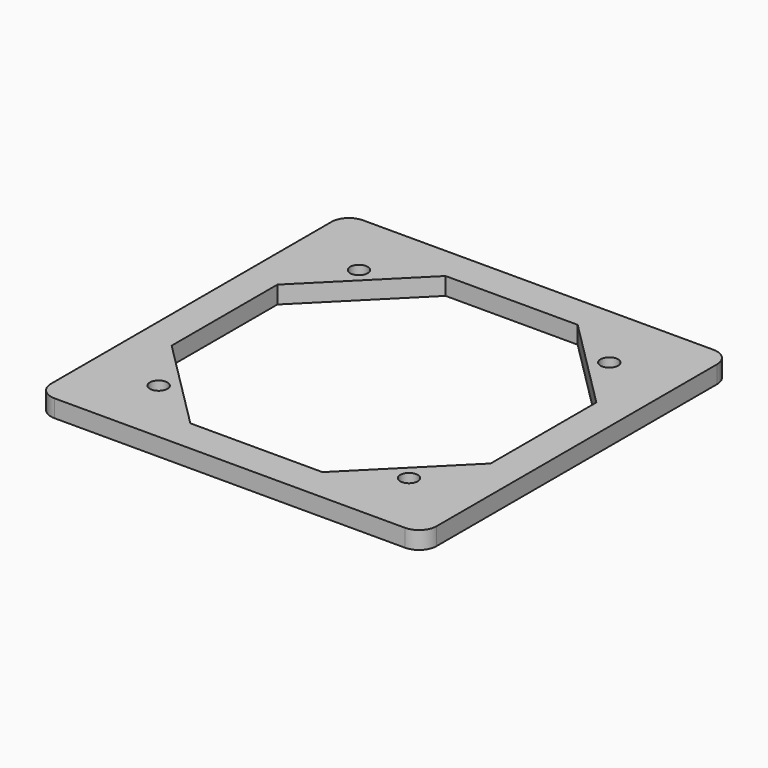
from build123d import *

# Parameters (mm, degrees)
F0_R     = 2.5
F1_DEPTH = 5


with BuildPart() as f1:
    # F0 (on Top) → F1 (new body)
    with BuildSketch(Plane.XY):
        with BuildLine():
            Line((-50, -55), (50, -55))
            ThreePointArc((50, -55), (53.535534, -53.535534), (55, -50))
            Line((55, -50), (55, 50))
            ThreePointArc((55, 50), (53.535534, 53.535534), (50, 55))
            Line((50, 55), (-50, 55))
            ThreePointArc((-50, 55), (-53.535534, 53.535534), (-55, 50))
            Line((-55, 50), (-55, -50))
            ThreePointArc((-55, -50), (-53.535534, -53.535534), (-50, -55))
        make_face()
        with Locations((-35.708892, -35.708892)):
            Circle(F0_R, mode=Mode.SUBTRACT)
        with Locations((35.708892, -35.708892)):
            Circle(F0_R, mode=Mode.SUBTRACT)
        with Locations((-35.708892, 35.708892)):
            Circle(F0_R, mode=Mode.SUBTRACT)
        Polygon((18.846717, 45.5), (45.5, 18.846717), (45.5, -18.846717), (18.846717, -45.5), (-18.846717, -45.5), (-45.5, -18.846717), (-45.5, 18.846717), (-18.846717, 45.5), align=None, mode=Mode.SUBTRACT)
        with Locations((35.708892, 35.708892)):
            Circle(F0_R, mode=Mode.SUBTRACT)
    extrude(amount=F1_DEPTH)


solid = f1.part
